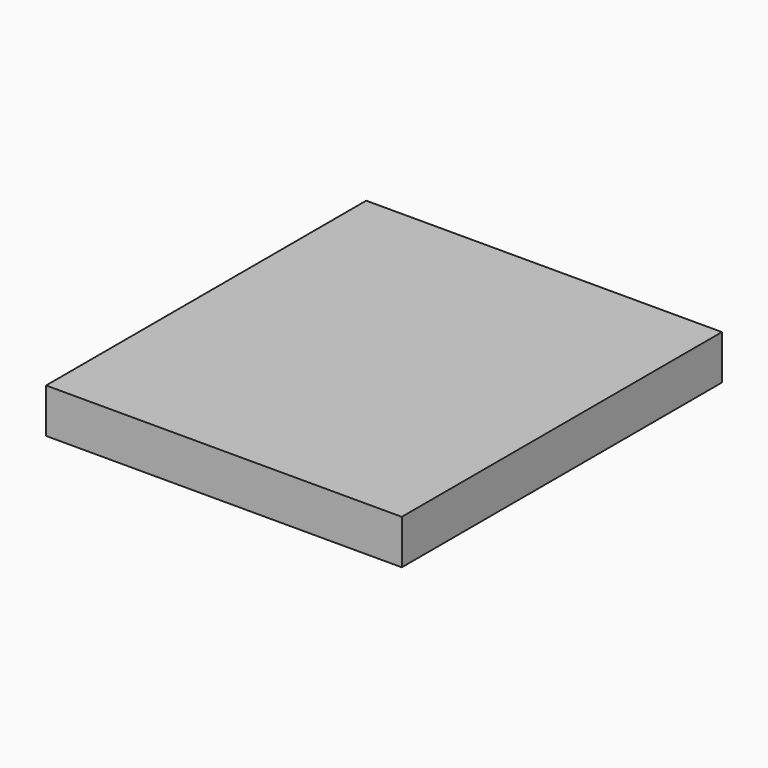
from build123d import *

# Parameters (mm, degrees)
SKETCH_W  = 32
SKETCH_H  = 36
PAD_DEPTH = 4


with BuildPart() as part:
    # Sketch → Pad (new body)
    with BuildSketch(Plane.XY):
        Rectangle(SKETCH_W, SKETCH_H)
    extrude(amount=PAD_DEPTH)


solid = part.part
